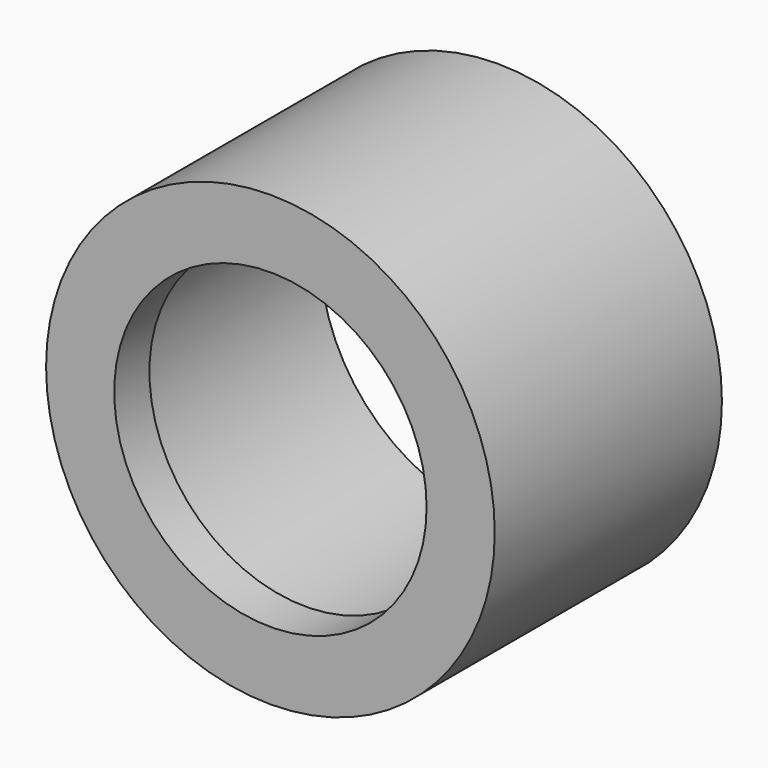
from build123d import *

# Parameters (mm, degrees)
F0_R     = 20.066
F0_R_2   = 13.97
F1_DEPTH = 25.4
F3_D     = 31.75
F3_DEPTH = 20.32
F3_TIP   = 9.5386623271


with BuildPart() as f1:
    # F0 (on Front) → F1 (new body)
    with BuildSketch(Plane.XZ):
        Circle(F0_R)
        Circle(F0_R_2, mode=Mode.SUBTRACT)
    extrude(amount=F1_DEPTH)

    # F3
    with Locations(Plane(origin=(0, 0, 0), x_dir=(1, 0, 0), z_dir=(0, 1, 0))):
        with Locations((0, 0)):
            Hole(F3_D / 2, depth=F3_DEPTH)
            with Locations((0, 0, -(F3_DEPTH + F3_TIP / 2))):  # 118° drill point
                Cone(0, F3_D / 2, F3_TIP, mode=Mode.SUBTRACT)


solid = f1.part
